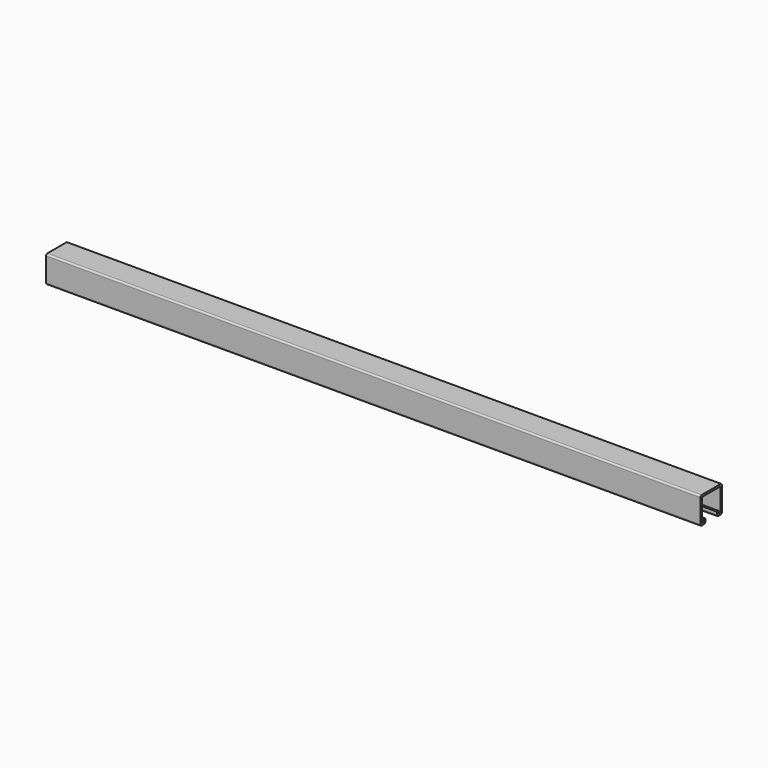
from build123d import *

# Parameters (mm, degrees)
F1_DEPTH = 1000


with BuildPart() as f1:
    # F0 (on Right) → F1 (new body)
    with BuildSketch(Plane.YZ):
        with BuildLine():
            Line((0, 38.8), (0, 2.5))
            ThreePointArc((0, 2.5), (0.732233, 0.732233), (2.5, 0))
            Line((2.5, 0), (7.05, 0))
            ThreePointArc((7.05, 0), (8.817767, 0.732233), (9.55, 2.5))
            Line((9.55, 2.5), (9.55, 6.6))
            ThreePointArc((9.55, 6.6), (9.403553, 6.953553), (9.05, 7.1))
            Line((9.05, 7.1), (7.05, 7.1))
            ThreePointArc((7.05, 7.1), (6.696447, 6.953553), (6.55, 6.6))
            Line((6.55, 6.6), (6.55, 3))
            Line((6.55, 3), (3, 3))
            Line((3, 3), (3, 38.3))
            Line((3, 38.3), (38.3, 38.3))
            Line((38.3, 38.3), (38.3, 3))
            Line((38.3, 3), (34.75, 3))
            Line((34.75, 3), (34.75, 6.6))
            ThreePointArc((34.75, 6.6), (34.603553, 6.953553), (34.25, 7.1))
            Line((34.25, 7.1), (32.25, 7.1))
            ThreePointArc((32.25, 7.1), (31.896447, 6.953553), (31.75, 6.6))
            Line((31.75, 6.6), (31.75, 2.5))
            ThreePointArc((31.75, 2.5), (32.482233, 0.732233), (34.25, 0))
            Line((34.25, 0), (38.8, 0))
            ThreePointArc((38.8, 0), (40.567767, 0.732233), (41.3, 2.5))
            Line((41.3, 2.5), (41.3, 38.8))
            ThreePointArc((41.3, 38.8), (40.567767, 40.567767), (38.8, 41.3))
            Line((38.8, 41.3), (2.5, 41.3))
            ThreePointArc((2.5, 41.3), (0.732233, 40.567767), (0, 38.8))
        make_face()
    extrude(amount=F1_DEPTH)


solid = f1.part
